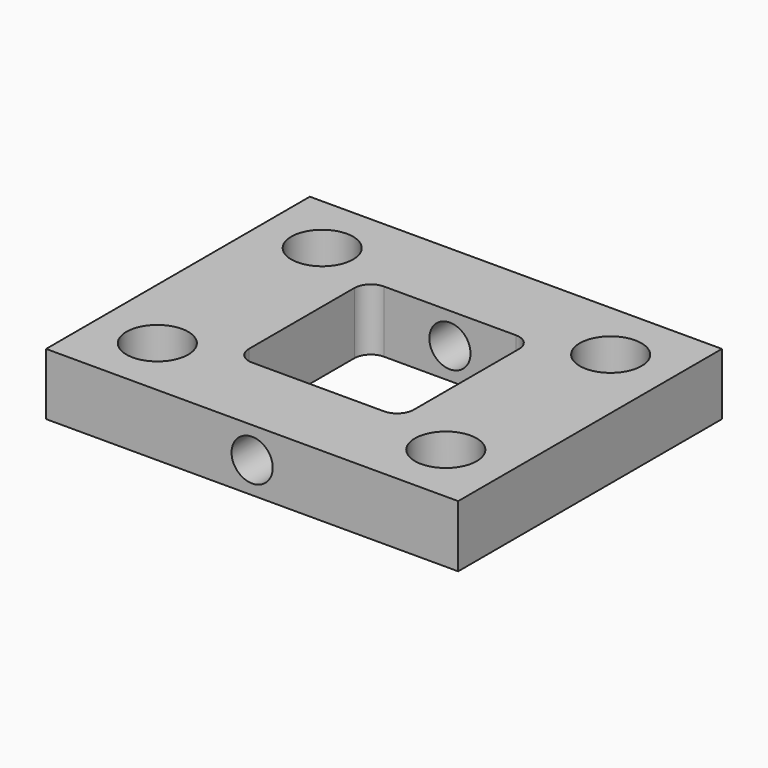
from build123d import *

# Parameters (mm, degrees)
F0_W      = 127
F0_H      = 101.6
F1_DEPTH  = 9.525
F1_FACE_W = 127
F1_FACE_H = 101.6
F2_DEPTH  = 9.525
F3_W      = 50.8
F3_H      = 50.8
F3_R      = 9.525
F4_DEPTH  = 25.4
F5_R      = 5.08
F6_R      = 6.35
F7_DEPTH  = 116.078


with BuildPart() as f1:
    # F0 (on Top) → F1 (new body)
    with BuildSketch(Plane.XY):
        Rectangle(F0_W, F0_H)
    extrude(amount=F1_DEPTH)

    # F1_face (on face) → F2 (join)
    with BuildSketch(Plane(origin=(0, 0, 0), x_dir=(1, 0, 0), z_dir=(0, 0, -1))):
        Rectangle(F1_FACE_W, F1_FACE_H)
    extrude(amount=F2_DEPTH)

    # F3 (on face) → F4 (cut)
    with BuildSketch(Plane.XY.offset(9.525)):
        Rectangle(F3_W, F3_H)
        with Locations((-44.45, -31.75)):
            Circle(F3_R)
        with Locations((-44.45, 31.75)):
            Circle(F3_R)
        with Locations((44.45, 31.75)):
            Circle(F3_R)
        with Locations((44.45, -31.75)):
            Circle(F3_R)
    extrude(amount=-F4_DEPTH, mode=Mode.SUBTRACT)

    # F5
    f5_edges = [f1.edges().sort_by_distance(p)[0] for p in [
        (-25.4, 25.4, 0),
        (-25.4, -25.4, 0),
        (25.4, -25.4, 0),
        (25.4, 25.4, 0),
    ]]
    fillet(f5_edges, radius=F5_R)

    # F6 (on face) → F7 (cut)
    with BuildSketch(Plane.XZ.offset(50.8)):
        Circle(F6_R)
    extrude(amount=-F7_DEPTH, mode=Mode.SUBTRACT)


solid = f1.part
